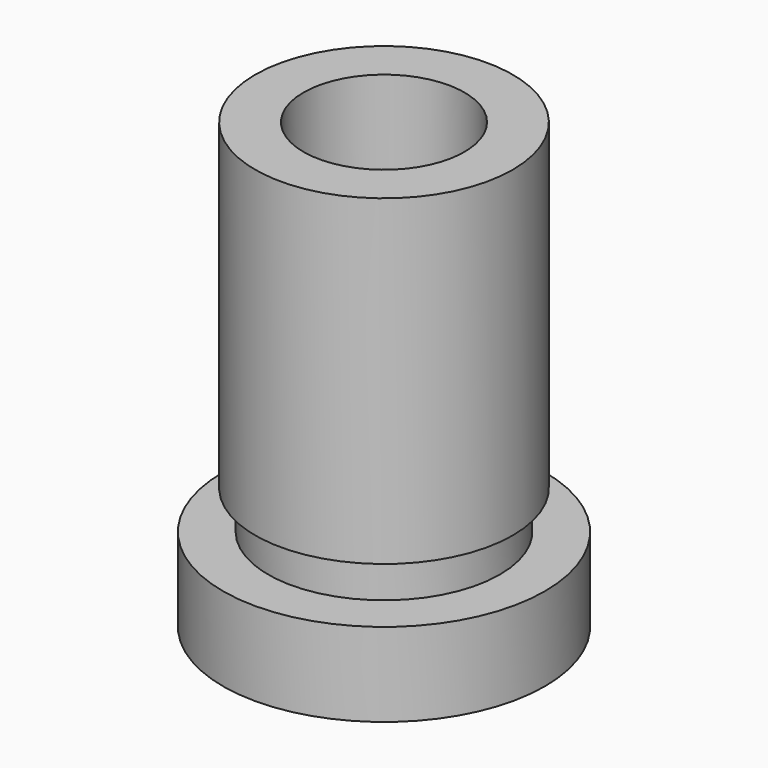
from build123d import *

# Parameters (mm, degrees)
F0_R           = 25
F1_DEPTH       = 13
F2_R           = 18
F3_DEPTH       = 6
F4_R           = 20
F4_R_2         = 18
F5_DEPTH       = 50
F7_D           = 25
F7_CBORE_D     = 30
F7_CBORE_DEPTH = 23


with BuildPart() as f1:
    # F0 (on Top) → F1 (new body)
    with BuildSketch(Plane.XY):
        Circle(F0_R)
    extrude(amount=F1_DEPTH)

    # F2 (on face) → F3 (join)
    with BuildSketch(Plane.XY.offset(13)):
        Circle(F2_R)
    extrude(amount=F3_DEPTH)

    # F4 (on face) → F5 (join)
    with BuildSketch(Plane.XY.offset(19)):
        Circle(F4_R)
        Circle(F4_R_2, mode=Mode.SUBTRACT)
        Circle(F4_R_2)
    extrude(amount=F5_DEPTH)

    # F7 (through all)
    with Locations(Plane(origin=(0, 0, 0), x_dir=(1, 0, 0), z_dir=(0, 0, -1))):
        with Locations((0, 0)):
            CounterBoreHole(F7_D / 2, F7_CBORE_D / 2, F7_CBORE_DEPTH)


solid = f1.part
